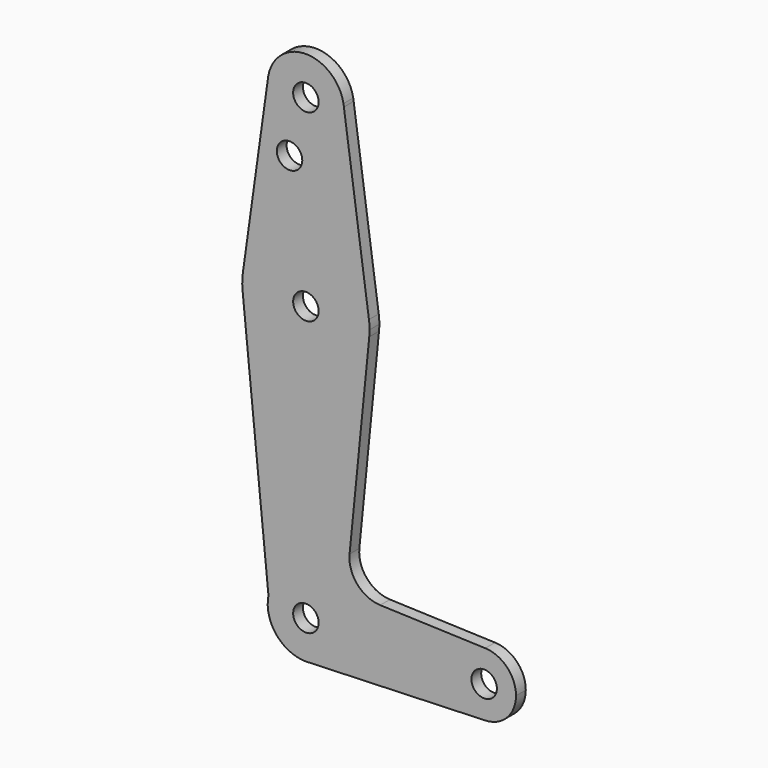
from build123d import *

# Parameters (mm, degrees)
F0_R     = 3.175
F1_DEPTH = 3.048


with BuildPart() as f1:
    # F0 (on Front) → F1 (new body)
    with BuildSketch(Plane.XZ):
        with BuildLine():
            Line((9.477194, 115.253109), (9.374722, 115.985293))
            ThreePointArc((9.374722, 115.985293), (0, 123.825), (-9.374722, 115.985293))
            Line((-9.374722, 115.985293), (-9.477194, 115.253109))
            ThreePointArc((-9.477194, 115.253109), (-0.477154, 104.786959), (9.525, 114.3))
            ThreePointArc((9.525, 114.3), (9.513041, 114.777154), (9.477194, 115.253109))
        make_face()
        with Locations((0, 114.3)):
            Circle(F0_R, mode=Mode.SUBTRACT)
        with BuildLine():
            ThreePointArc((9.477194, 115.253109), (9.433065, 115.620195), (9.374722, 115.985293))
            Line((9.374722, 115.985293), (9.477194, 115.253109))
        make_face()
        with BuildLine():
            Line((-9.477194, 115.253109), (-9.374722, 115.985293))
            ThreePointArc((-9.374722, 115.985293), (-9.433065, 115.620195), (-9.477194, 115.253109))
        make_face()
        with BuildLine():
            Line((15.721774, 70.634313), (9.477194, 115.253109))
            ThreePointArc((9.477194, 115.253109), (9.513041, 114.777154), (9.525, 114.3))
            ThreePointArc((9.525, 114.3), (-0.477154, 104.786959), (-9.477194, 115.253109))
            Line((-9.477194, 115.253109), (-15.721774, 70.634313))
            ThreePointArc((-15.721774, 70.634313), (0, 84.308988), (15.721774, 70.634313))
        make_face()
        with Locations((-4.074128, 100.172617)):
            Circle(F0_R, mode=Mode.SUBTRACT)
        with BuildLine():
            ThreePointArc((15.875, 68.433988), (15.836647, 69.536815), (15.721774, 70.634313))
            ThreePointArc((15.721774, 70.634313), (0, 84.308988), (-15.721774, 70.634313))
            ThreePointArc((-15.721774, 70.634313), (-15.871846, 68.750419), (-15.796981, 66.862041))
            ThreePointArc((-15.796981, 66.862041), (0, 52.558988), (15.796981, 66.862041))
            ThreePointArc((15.796981, 66.862041), (15.855483, 67.647047), (15.875, 68.433988))
        make_face()
        with Locations((0, 68.433988)):
            Circle(F0_R, mode=Mode.SUBTRACT)
        with BuildLine():
            ThreePointArc((15.796981, 66.862041), (0, 52.558988), (-15.796981, 66.862041))
            Line((-15.796981, 66.862041), (-9.332956, 1.903039))
            ThreePointArc((-9.332956, 1.903039), (0.956352, 9.476867), (9.525, 0))
            ThreePointArc((9.525, 0), (6.970557, -6.491299), (0.677344, -9.500886))
            Line((0.677344, -9.500886), (44.732405, -7.932475))
            ThreePointArc((44.732405, -7.932475), (36.5125, 0), (44.732405, 7.932475))
            Line((44.732405, 7.932475), (18.523017, 8.865559))
            ThreePointArc((18.523017, 8.865559), (12.818468, 11.580368), (10.894746, 17.597957))
            Line((10.894746, 17.597957), (15.796981, 66.862041))
        make_face()
        with BuildLine():
            ThreePointArc((9.525, 0), (0.956352, 9.476867), (-9.332956, 1.903039))
            ThreePointArc((-9.332956, 1.903039), (-7.3774, -6.024914), (0, -9.525))
            Line((0, -9.525), (0.677344, -9.500886))
            ThreePointArc((0.677344, -9.500886), (6.970557, -6.491299), (9.525, 0))
        make_face()
        Circle(F0_R, mode=Mode.SUBTRACT)
        with BuildLine():
            Line((0.677344, -9.500886), (0, -9.525))
            ThreePointArc((0, -9.525), (0.338886, -9.51897), (0.677344, -9.500886))
        make_face()
        with BuildLine():
            ThreePointArc((52.3875, 0), (50.161633, 5.51191), (44.732405, 7.932475))
            ThreePointArc((44.732405, 7.932475), (36.5125, 0), (44.732405, -7.932475))
            ThreePointArc((44.732405, -7.932475), (50.161633, -5.51191), (52.3875, 0))
        make_face()
        with Locations((44.45, 0)):
            Circle(F0_R, mode=Mode.SUBTRACT)
    extrude(amount=F1_DEPTH)


solid = f1.part
